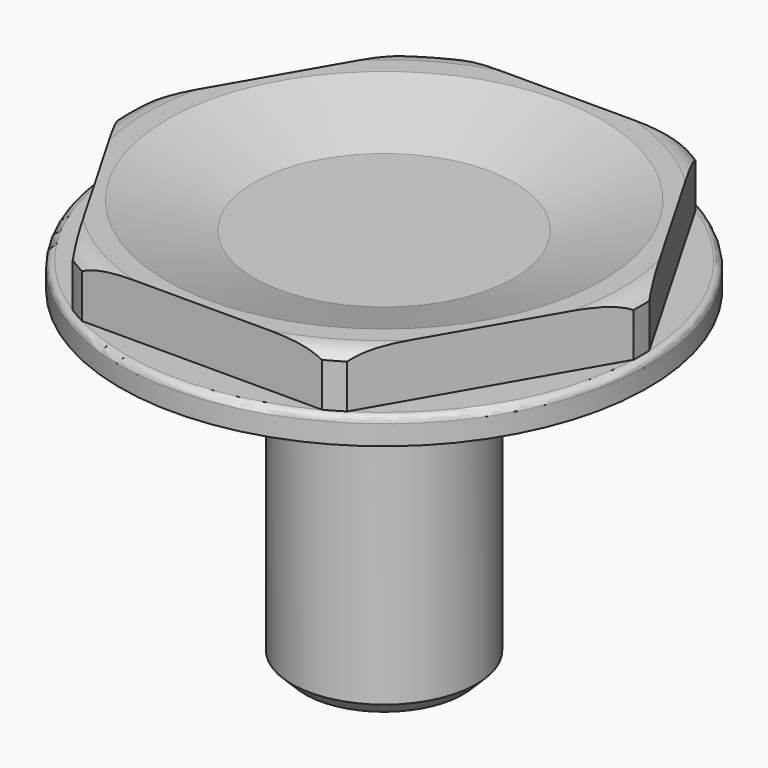
from build123d import *

# Parameters (mm, degrees)
F3_R     = 21.863544
F4_DEPTH = 6
F5_SIZE  = 5


with BuildPart() as f2:
    # F1 (on Right) → F2 (revolve)
    with BuildSketch(Plane.YZ):
        with BuildLine():
            Line((0, 4), (0, -25))
            Line((0, -25), (6, -25))
            Line((6, -25), (7, -24))
            Line((7, -24), (7, 0))
            Line((7, 0), (20, 0))
            Line((20, 0), (20, 1.5))
            ThreePointArc((20, 1.5), (19.853553, 1.853553), (19.5, 2))
            Line((19.5, 2), (19.5, 5.322876))
            ThreePointArc((19.5, 5.322876), (18.822876, 5.822876), (18, 6))
            Line((18, 6), (16.5, 6))
            Line((16.5, 6), (9.837409, 4))
            Line((9.837409, 4), (0, 4))
        make_face()
    revolve(axis=Axis((0, 0, -10.5), (0, 0, -1)))

    # F3 (on offset) → F4 (cut)
    with BuildSketch(Plane.XY.offset(2)):
        Circle(F3_R)
        Polygon((-19.918584, 0), (-9.959292, 17.25), (9.959292, 17.25), (19.918584, 0), (9.959292, -17.25), (-9.959292, -17.25), align=None, mode=Mode.SUBTRACT)
    extrude(amount=F4_DEPTH, mode=Mode.SUBTRACT)

    # F5
    f5_edges = [f2.edges().sort_by_distance(p)[0] for p in [
        (0, -7, 0),
    ]]
    chamfer(f5_edges, length=F5_SIZE)


solid = f2.part
